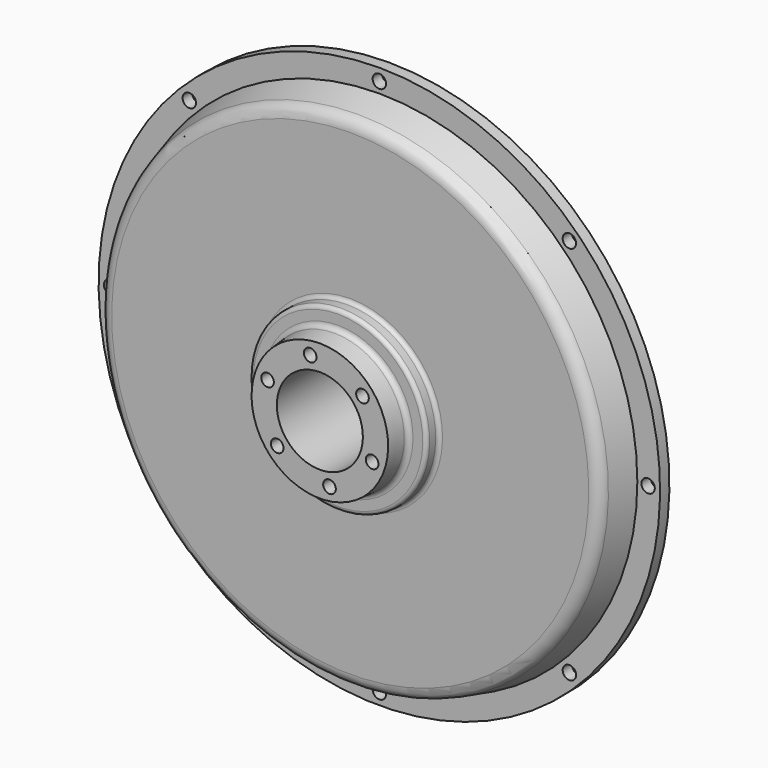
from build123d import *

# Parameters (mm, degrees)
F2_R     = 2.65
F3_DEPTH = 7.101
F5_D     = 5


with BuildPart() as f1:
    # F0 (on Right) → F1 (revolve)
    with BuildSketch(Plane.YZ):
        with BuildLine():
            Line((2.5, 17), (2.5, 102.5))
            Line((2.5, 102.5), (0, 102.5))
            Line((0, 102.5), (0, 111))
            Line((0, 111), (-4.6, 111))
            Line((-4.6, 111), (-4.6, 102))
            Line((-4.6, 102), (-15.294095, 99.134526))
            ThreePointArc((-15.294095, 99.134526), (-17.966767, 97.348704), (-19, 94.304897))
            Line((-19, 94.304897), (-19, 36.5))
            ThreePointArc((-19, 36.5), (-19.43934, 35.43934), (-20.5, 35))
            Line((-20.5, 35), (-23.5, 35))
            ThreePointArc((-23.5, 35), (-24.56066, 34.56066), (-25, 33.5))
            Line((-25, 33.5), (-25, 29.62006))
            ThreePointArc((-25, 29.62006), (-25.525445, 28.26888), (-26.825689, 27.627671))
            Line((-26.825689, 27.627671), (-34, 27))
            Line((-34, 27), (-34, 17))
            Line((-34, 17), (2.5, 17))
        make_face()
    revolve(axis=Axis((0, -26.156189, 0), (0, -1, 0)))

    # F2 (on face) → F3 (cut, through all)
    with BuildSketch(Plane.XZ.offset(4.6)):
        with Locations((-106.25, 0)):
            Circle(F2_R)
        with Locations((-75.130096, -75.130096)):
            Circle(F2_R)
        with Locations((0, -106.25)):
            Circle(F2_R)
        with Locations((75.130096, -75.130096)):
            Circle(F2_R)
        with Locations((106.25, 0)):
            Circle(F2_R)
        with Locations((75.130096, 75.130096)):
            Circle(F2_R)
        with Locations((0, 106.25)):
            Circle(F2_R)
        with Locations((-75.130096, 75.130096)):
            Circle(F2_R)
    extrude(amount=-F3_DEPTH, mode=Mode.SUBTRACT)

    # F5 (through all)
    with Locations(Plane.XZ.offset(34)):
        with Locations((-3.82026, 21.665771), (16.852978, 14.141327), (20.673238, -7.524443), (3.82026, -21.665771), (-16.852978, -14.141327), (-20.673238, 7.524443)):
            Hole(F5_D / 2)


solid = f1.part
